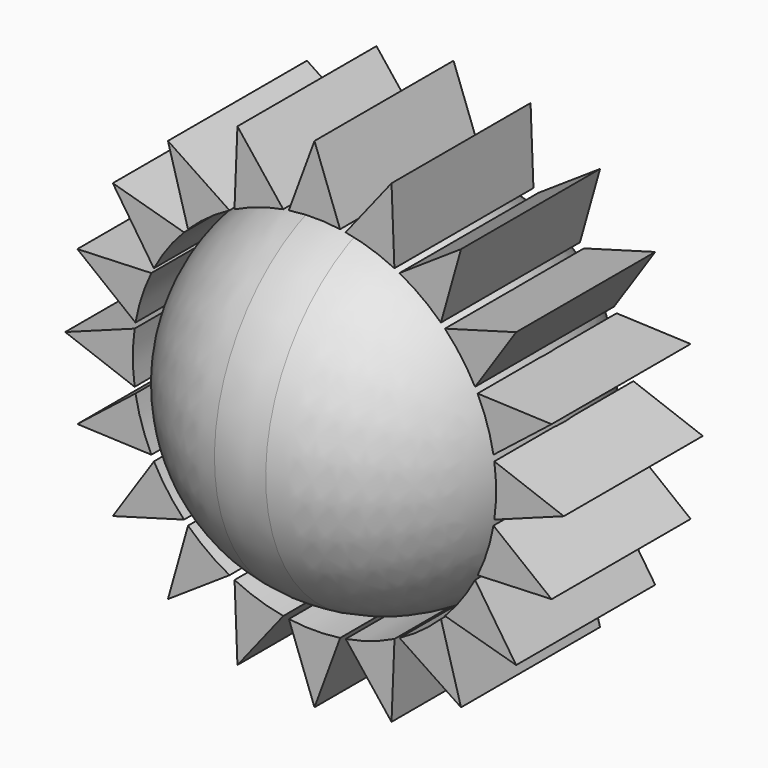
from build123d import *

# Parameters (mm, degrees)
F2_DEPTH      = 10
F2_DEPTH_BACK = 10
F4_COUNT      = 20


with BuildPart() as f1:
    # F0 (on Front) → F1 (revolve)
    with BuildSketch(Plane.XZ):
        with BuildLine():
            ThreePointArc((-2.955436, 20.698184), (-15.825742, 13.706184), (-20.99037, 0))
            Line((-20.99037, 0), (20.99037, 0))
            ThreePointArc((20.99037, 0), (15.822018, 13.710457), (2.944212, 20.699777))
            ThreePointArc((2.944212, 20.699777), (-0.005668, 20.907286), (-2.955436, 20.698184))
        make_face()
    revolve(axis=Axis((0, 0, 0), (1, 0, 0)))


with BuildPart() as f2:
    # F0 (on Front) → F2 (new body, two sides)
    with BuildSketch(Plane.XZ) as f2_sk:
        with BuildLine():
            Line((0, 28.690675), (-2.955436, 20.698184))
            ThreePointArc((-2.955436, 20.698184), (-0.005668, 20.907286), (2.944212, 20.699777))
            Line((2.944212, 20.699777), (0, 28.690675))
        make_face()
    extrude(amount=F2_DEPTH)
    extrude(f2_sk.sketch, amount=-F2_DEPTH_BACK)


with BuildPart() as f4_1:
    # F4: instance of F2
    add(f2.part.rotate(Axis((0, 0.027906, 0), (0, 1, 0)), 1 * 360 / F4_COUNT))


with BuildPart() as f4_2:
    # F4: instance of F2
    add(f2.part.rotate(Axis((0, 0.027906, 0), (0, 1, 0)), 2 * 360 / F4_COUNT))


with BuildPart() as f4_3:
    # F4: instance of F2
    add(f2.part.rotate(Axis((0, 0.027906, 0), (0, 1, 0)), 3 * 360 / F4_COUNT))


with BuildPart() as f4_4:
    # F4: instance of F2
    add(f2.part.rotate(Axis((0, 0.027906, 0), (0, 1, 0)), 4 * 360 / F4_COUNT))


with BuildPart() as f4_5:
    # F4: instance of F2
    add(f2.part.rotate(Axis((0, 0.027906, 0), (0, 1, 0)), 5 * 360 / F4_COUNT))


with BuildPart() as f4_6:
    # F4: instance of F2
    add(f2.part.rotate(Axis((0, 0.027906, 0), (0, 1, 0)), 6 * 360 / F4_COUNT))


with BuildPart() as f4_7:
    # F4: instance of F2
    add(f2.part.rotate(Axis((0, 0.027906, 0), (0, 1, 0)), 7 * 360 / F4_COUNT))


with BuildPart() as f4_8:
    # F4: instance of F2
    add(f2.part.rotate(Axis((0, 0.027906, 0), (0, 1, 0)), 8 * 360 / F4_COUNT))


with BuildPart() as f4_9:
    # F4: instance of F2
    add(f2.part.rotate(Axis((0, 0.027906, 0), (0, 1, 0)), 9 * 360 / F4_COUNT))


with BuildPart() as f4_10:
    # F4: instance of F2
    add(f2.part.rotate(Axis((0, 0.027906, 0), (0, 1, 0)), 10 * 360 / F4_COUNT))


with BuildPart() as f4_11:
    # F4: instance of F2
    add(f2.part.rotate(Axis((0, 0.027906, 0), (0, 1, 0)), 11 * 360 / F4_COUNT))


with BuildPart() as f4_12:
    # F4: instance of F2
    add(f2.part.rotate(Axis((0, 0.027906, 0), (0, 1, 0)), 12 * 360 / F4_COUNT))


with BuildPart() as f4_13:
    # F4: instance of F2
    add(f2.part.rotate(Axis((0, 0.027906, 0), (0, 1, 0)), 13 * 360 / F4_COUNT))


with BuildPart() as f4_14:
    # F4: instance of F2
    add(f2.part.rotate(Axis((0, 0.027906, 0), (0, 1, 0)), 14 * 360 / F4_COUNT))


with BuildPart() as f4_15:
    # F4: instance of F2
    add(f2.part.rotate(Axis((0, 0.027906, 0), (0, 1, 0)), 15 * 360 / F4_COUNT))


with BuildPart() as f4_16:
    # F4: instance of F2
    add(f2.part.rotate(Axis((0, 0.027906, 0), (0, 1, 0)), 16 * 360 / F4_COUNT))


with BuildPart() as f4_17:
    # F4: instance of F2
    add(f2.part.rotate(Axis((0, 0.027906, 0), (0, 1, 0)), 17 * 360 / F4_COUNT))


with BuildPart() as f4_18:
    # F4: instance of F2
    add(f2.part.rotate(Axis((0, 0.027906, 0), (0, 1, 0)), 18 * 360 / F4_COUNT))


with BuildPart() as f4_19:
    # F4: instance of F2
    add(f2.part.rotate(Axis((0, 0.027906, 0), (0, 1, 0)), 19 * 360 / F4_COUNT))


solid = Compound([f1.part, f2.part, f4_1.part, f4_2.part, f4_3.part, f4_4.part, f4_5.part, f4_6.part, f4_7.part, f4_8.part, f4_9.part, f4_10.part, f4_11.part, f4_12.part, f4_13.part, f4_14.part, f4_15.part, f4_16.part, f4_17.part, f4_18.part, f4_19.part])
